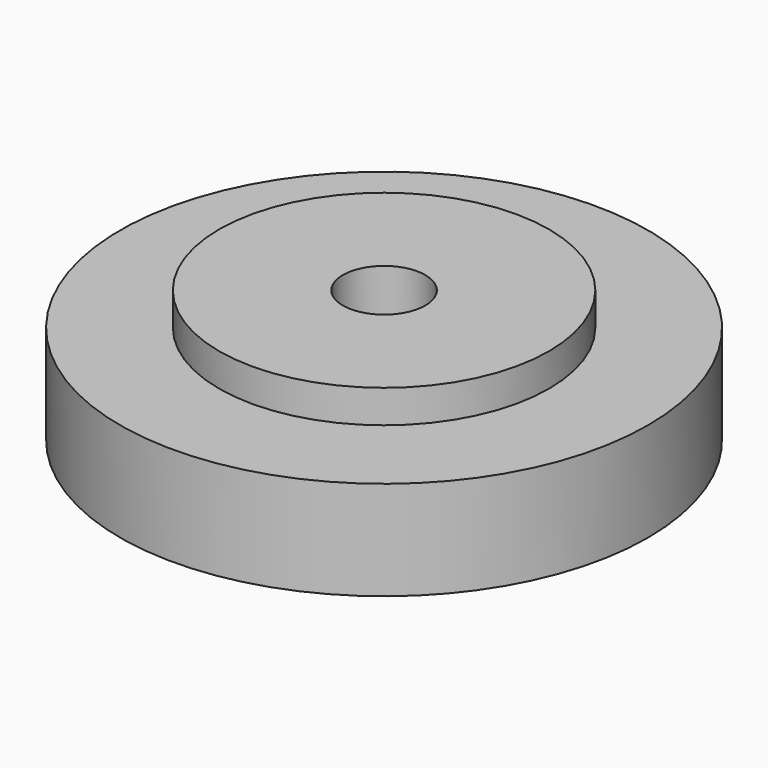
from build123d import *

# Parameters (mm, degrees)
F0_R     = 25.4
F1_DEPTH = 9.525
F2_R     = 15.875
F3_DEPTH = 3.175
F4_R     = 3.96875
F5_DEPTH = 12.701


with BuildPart() as f1:
    # F0 (on Top) → F1 (new body)
    with BuildSketch(Plane.XY):
        Circle(F0_R)
    extrude(amount=F1_DEPTH)

    # F2 (on face) → F3 (join)
    with BuildSketch(Plane.XY.offset(9.525)):
        Circle(F2_R)
    extrude(amount=F3_DEPTH)

    # F4 (on face) → F5 (cut, through all)
    with BuildSketch(Plane.XY.offset(12.7)):
        Circle(F4_R)
    extrude(amount=-F5_DEPTH, mode=Mode.SUBTRACT)


solid = f1.part
